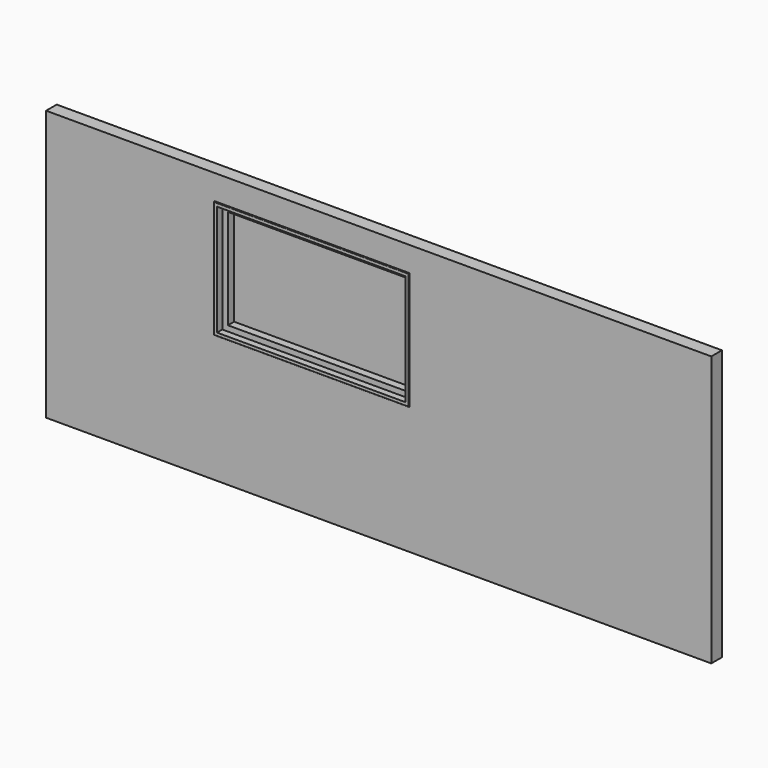
from build123d import *

# Parameters (mm, degrees)
F0_W      = 6000
F0_H      = 2438
F1_DEPTH  = 120
F2_W      = 1600
F2_H      = 900
F3_DEPTH  = 120.001
F4_W      = 1700
F4_H      = 1000
F4_W_2    = 1600
F4_H_2    = 900
F5_DEPTH  = 50
F6_W      = 1760
F6_H      = 1060
F6_W_2    = 1700
F6_H_2    = 1000
F7_DEPTH  = 10
F8_R      = 5
F9_W      = 1600
F9_H      = 900
F10_DEPTH = 25


with BuildPart() as f1:
    # F0 (on Front) → F1 (new body)
    with BuildSketch(Plane.XZ):
        with Locations((218.497608, 61.978497)):
            Rectangle(F0_W, F0_H)
    extrude(amount=F1_DEPTH)

    # F2 (on face) → F3 (cut, through all)
    with BuildSketch(Plane.XZ.offset(120)):
        with Locations((-381.502392, 527.134765)):
            Rectangle(F2_W, F2_H)
    extrude(amount=-F3_DEPTH, mode=Mode.SUBTRACT)

    # F4 (on face) → F5 (cut)
    with BuildSketch(Plane.XZ.offset(120)):
        with Locations((-381.502392, 527.134765)):
            Rectangle(F4_W, F4_H)
        with Locations((-381.502392, 527.134765)):
            Rectangle(F4_W_2, F4_H_2, mode=Mode.SUBTRACT)
    extrude(amount=-F5_DEPTH, mode=Mode.SUBTRACT)

    # F6 (on face) → F7 (join)
    with BuildSketch(Plane.XZ.offset(120)):
        with Locations((-381.502392, 527.134765)):
            Rectangle(F6_W, F6_H)
        with Locations((-381.502392, 527.134765)):
            Rectangle(F6_W_2, F6_H_2, mode=Mode.SUBTRACT)
    extrude(amount=F7_DEPTH)

    # F8
    f8_edges = [f1.edges().sort_by_distance(p)[0] for p in [
        (-381.502392, -130, 1057.134765),
        (498.497608, -130, 527.134765),
        (-381.502392, -130, -2.865235),
        (-1261.502392, -130, 527.134765),
    ]]
    fillet(f8_edges, radius=F8_R)


with BuildPart() as f10:
    # F9 (on face) → F10 (new body)
    with BuildSketch(Plane(origin=(0, 0, 0), x_dir=(-1, 0, 0), z_dir=(0, 1, 0))):
        with Locations((381.502392, 527.134765)):
            Rectangle(F9_W, F9_H)
    extrude(amount=F10_DEPTH)


solid = Compound([f1.part, f10.part])
